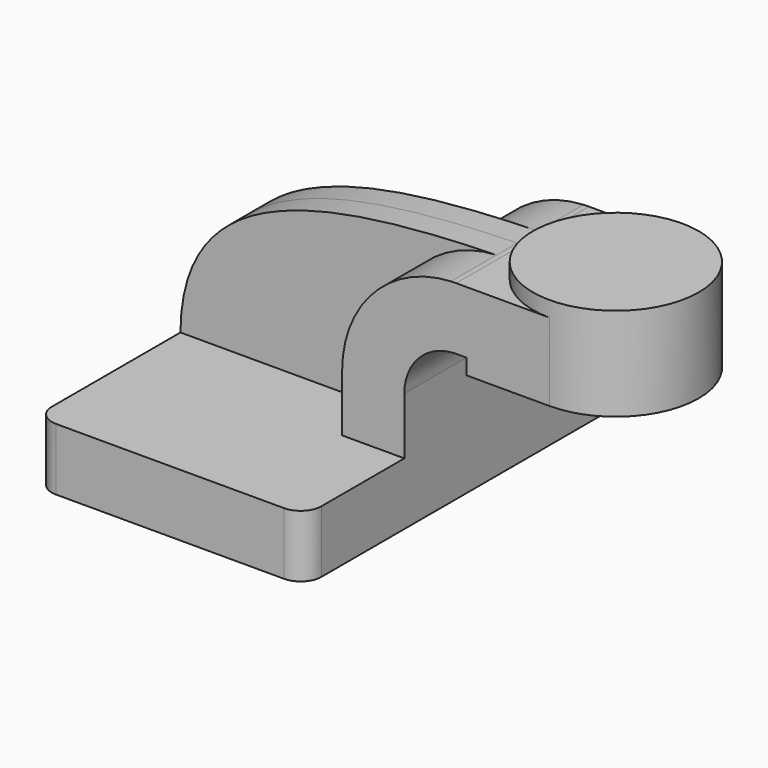
from build123d import *

# Parameters (mm, degrees)
F1_DEPTH = 63.5
F2_DEPTH = 25.4
F3_DEPTH = 7.9375
F5_R     = 6.35


with BuildPart() as f1:
    # F0 (on Front) → F1 (new body, symmetric)
    with BuildSketch(Plane.XZ):
        Polygon((-41.275, 9.525), (-41.275, -9.525), (41.275, -9.525), (41.275, 9.525), (22.225, 9.525), align=None)
    extrude(amount=F1_DEPTH, both=True)

    # F0 (on Front) → F2 (join, symmetric)
    with BuildSketch(Plane.XZ):
        with BuildLine():
            Line((22.225, 9.525), (41.275, 9.525))
            Line((41.275, 9.525), (41.275, 27.0002))
            ThreePointArc((41.275, 27.0002), (45.92468, 38.22552), (57.15, 42.8752))
            Line((57.15, 42.8752), (60.325, 42.8752))
            Line((60.325, 42.8752), (60.325, 61.9252))
            Line((60.325, 61.9252), (57.15, 61.9252))
            add(Edge.make_bspline(
                [(55.536606, 61.887914), (56.072947, 61.901034), (56.610752, 61.913456), (57.15, 61.9252)],
                knots=[110.452417, 110.452417, 110.452417, 110.452417, 111.504536, 111.504536, 111.504536, 111.504536], degree=3))
            ThreePointArc((55.536606, 61.887914), (31.890315, 51.118739), (22.225, 27.0002))
            Line((22.225, 27.0002), (22.225, 9.525))
        make_face()
        Polygon((85.725, 61.9252), (60.325, 61.9252), (60.325, 42.8752), (60.325, 38.1), (85.725, 38.1), align=None)
    extrude(amount=F2_DEPTH, both=True)

    # F0 (on Front) → F3 (join, symmetric)
    with BuildSketch(Plane.XZ):
        with BuildLine():
            add(Edge.make_bspline(
                [(-41.275, 9.525), (-40.940461, 51.429681), (-0.768926, 60.510521), (55.536606, 61.887914)],
                knots=[0, 0, 0, 0, 110.452417, 110.452417, 110.452417, 110.452417], degree=3))
            Line((-41.275, 9.525), (22.225, 9.525))
            Line((22.225, 9.525), (22.225, 27.0002))
            ThreePointArc((22.225, 27.0002), (31.890315, 51.118739), (55.536606, 61.887914))
        make_face()
    extrude(amount=F3_DEPTH, both=True)

    # F0 (on Front) → F4 (revolve)
    with BuildSketch(Plane.XZ):
        Polygon((85.725, 66.675), (85.725, 61.9252), (85.725, 38.1), (111.125, 38.1), (111.125, 66.675), align=None)
    revolve(axis=Axis((85.725, 0, 52.3875), (0, 0, 1)))

    # F5
    f5_edges = [f1.edges().sort_by_distance(p)[0] for p in [
        (41.275, -63.5, 0),
        (-41.275, -63.5, 0),
        (41.275, 63.5, 0),
        (-41.275, 63.5, 0),
    ]]
    fillet(f5_edges, radius=F5_R)


solid = f1.part
